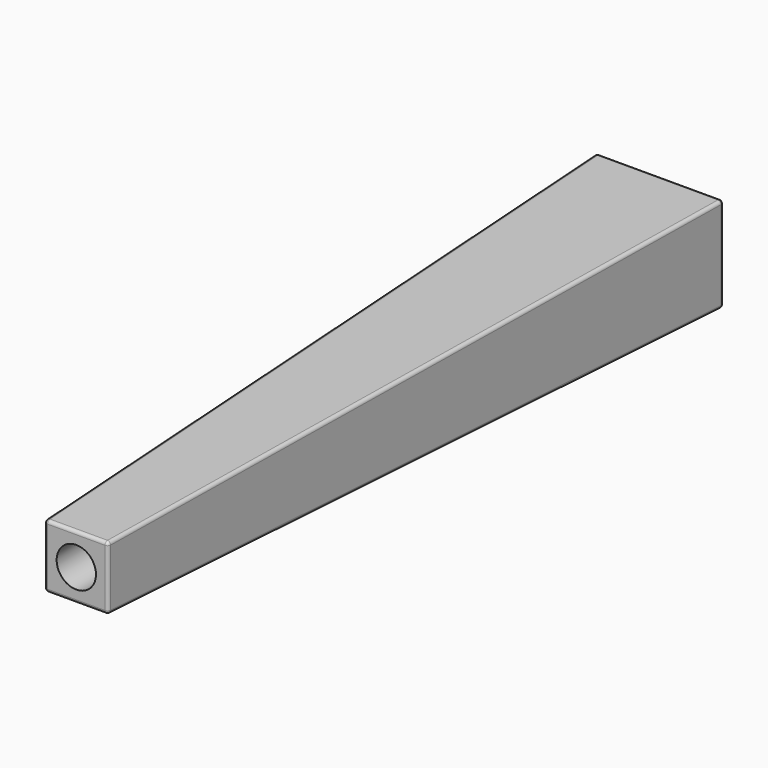
from build123d import *

# Parameters (mm, degrees)
F0_W      = 25.4
F0_H      = 19.05
F1_DEPTH  = 146.05
F4_DEPTH  = 25.4
F6_DEPTH  = 25.4
F8_DEPTH  = 12.7
F9_R      = 0.635
F10_R     = 3.937
F11_DEPTH = 31.75


with BuildPart() as f1:
    # F0 (on Front) → F1 (new body)
    with BuildSketch(Plane.XZ):
        Rectangle(F0_W, F0_H)
    extrude(amount=F1_DEPTH)

    # F3 (on face) → F4 (cut)
    with BuildSketch(Plane(origin=(-12.7, 0, 0), x_dir=(0, -1, 0), z_dir=(-1, 0, 0))):
        Polygon((146.05, 9.525), (0, 9.525), (146.05, 6.35), align=None)
    extrude(amount=-F4_DEPTH, mode=Mode.SUBTRACT)

    # F5 (on face) → F6 (cut)
    with BuildSketch(Plane(origin=(-12.7, 0, 0), x_dir=(0, -1, 0), z_dir=(-1, 0, 0))):
        Polygon((146.05, -6.35), (0, -9.525), (146.05, -9.525), align=None)
    extrude(amount=-F6_DEPTH, mode=Mode.SUBTRACT)

    # F7 (on Top) → F8 (cut, symmetric)
    with BuildSketch(Plane.XY):
        Polygon((-12.7, -146.05), (-6.35, -146.05), (-12.7, 0), align=None)
        Polygon((6.35, -146.05), (12.7, -146.05), (12.7, 0), align=None)
    extrude(amount=F8_DEPTH, both=True, mode=Mode.SUBTRACT)

    # F9
    f9_edges = [f1.edges().sort_by_distance(p)[0] for p in [
        (9.525, -73.025, 7.9375),
        (0, -146.05, 6.35),
        (6.35, -146.05, 0),
        (0, -146.05, -6.35),
        (-6.35, -146.05, 0),
        (-9.525, -73.025, 7.9375),
        (-9.525, -73.025, -7.9375),
        (12.7, 0, 0),
        (0, 0, 9.525),
        (-12.7, 0, 0),
        (0, 0, -9.525),
        (9.525, -73.025, -7.9375),
    ]]
    fillet(f9_edges, radius=F9_R)

    # F10 (on face) → F11 (cut)
    with BuildSketch(Plane.XZ.offset(146.05)):
        Circle(F10_R)
    extrude(amount=-F11_DEPTH, mode=Mode.SUBTRACT)


solid = f1.part
